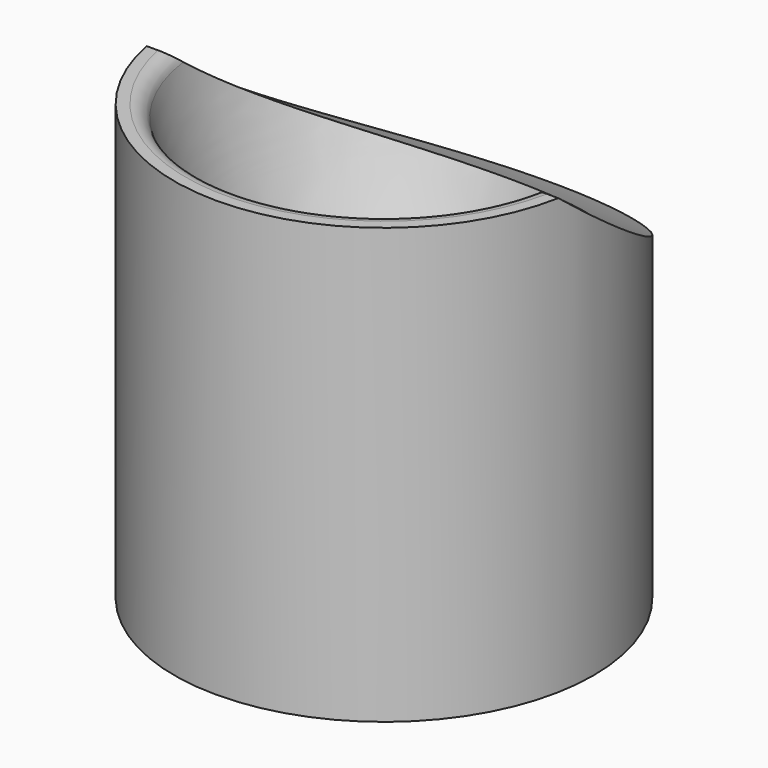
from build123d import *

# Parameters (mm, degrees)
F3_DEPTH = 52.81897
F4_R     = 10


with BuildPart() as f1:
    # F0 (on Front) → F1 (revolve)
    with BuildSketch(Plane.XZ):
        with BuildLine():
            Line((0, 10), (0, 0))
            Line((0, 0), (26.5, 0))
            Line((26.5, 0), (26.5, 55))
            Line((26.5, 55), (25.092501, 55))
            ThreePointArc((25.092501, 55), (23.849016, 54.566444), (23.144652, 53.453747))
            ThreePointArc((23.144652, 53.453747), (17.005279, 31.423188), (9, 10))
            Line((9, 10), (0, 10))
        make_face()
    revolve(axis=Axis((0, 0, 17.288097), (0, 0, 1)))

    # F2 (on Right) → F3 (cut, symmetric)
    with BuildSketch(Plane.YZ):
        with BuildLine():
            ThreePointArc((-4.980726, 55), (144.261109, 36.559124), (224.721762, 163.59957))
            ThreePointArc((224.721762, 163.59957), (24.13583, 290.640016), (-4.980726, 55))
        make_face()
    extrude(amount=F3_DEPTH, both=True, mode=Mode.SUBTRACT)

    # F4
    f4_edges = [f1.edges().sort_by_distance(p)[0] for p in [
        (-9, 0, 10),
    ]]
    fillet(f4_edges, radius=F4_R)


solid = f1.part
